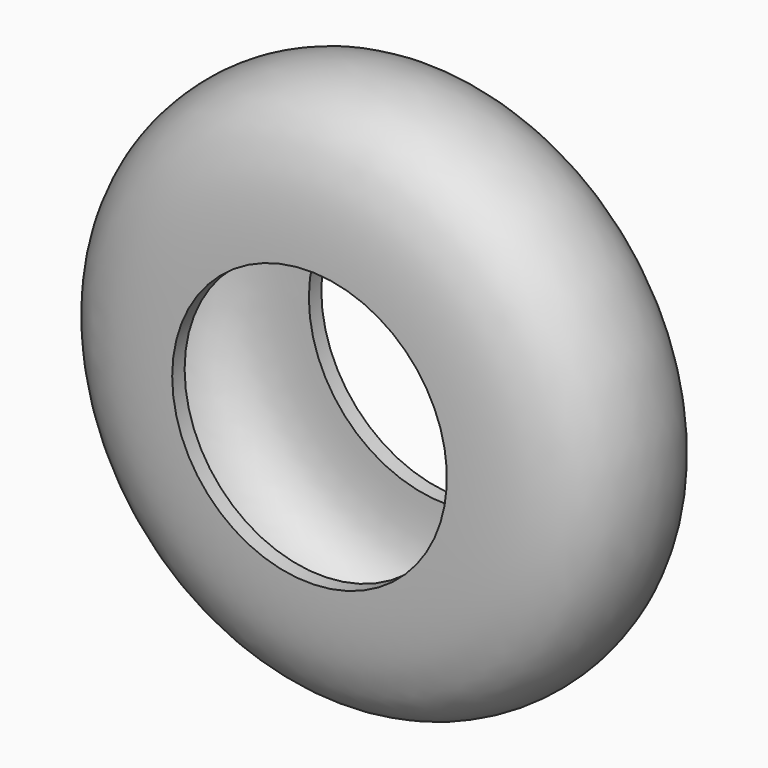
from build123d import *


with BuildPart() as f1:
    # F0 (on Top) → F1 (revolve)
    with BuildSketch(Plane.XY):
        with BuildLine():
            Line((0, 25.4), (0, 30.48))
            add(Edge.make_bspline(
                [(0, 30.48), (-19.6761766656, 30.48), (-46.6184277392, 23.995204506), (-46.6184277392, -23.995204506), (-19.6761766656, -30.48), (0, -30.48)],
                knots=[0, 0, 0, 0, 0.347761329, 0.652238671, 1, 1, 1, 1], degree=3))
            Line((0, -30.48), (0, -25.4))
            add(Edge.make_bspline(
                [(0, 25.4), (-11.6758977738, 25.4), (-34.8821870927, 23.6247373079), (-34.8821870927, -23.6247373079), (-11.6758977738, -25.4), (0, -25.4)],
                knots=[0, 0, 0, 0, 0.3282526307, 0.6717473693, 1, 1, 1, 1], degree=3))
        make_face()
    revolve(axis=Axis((44.9267439544, 10.2685596794, 0), (0, 1, 0)))


solid = f1.part
